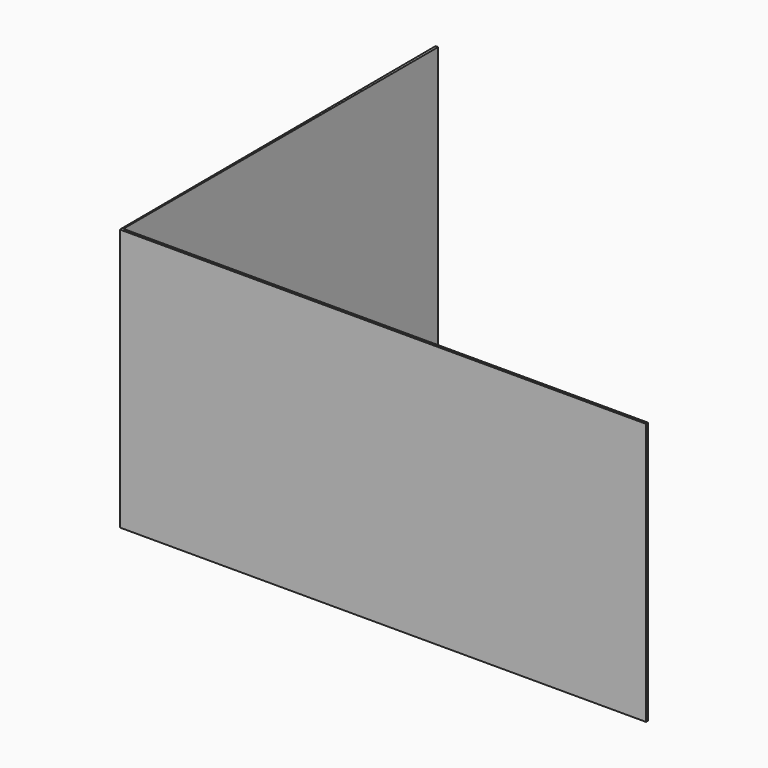
from build123d import *

# Parameters (mm, degrees)
PAD_DEPTH = 2000


with BuildPart() as part:
    # Sketch → Pad (new body)
    with BuildSketch(Plane.XY):
        Polygon((-1520, 1500), (-1500, 1500), (-1500, -1500), (2500, -1500), (2500.066225, -1520), (-1510, -1520), align=None)
    extrude(amount=PAD_DEPTH)


solid = part.part
